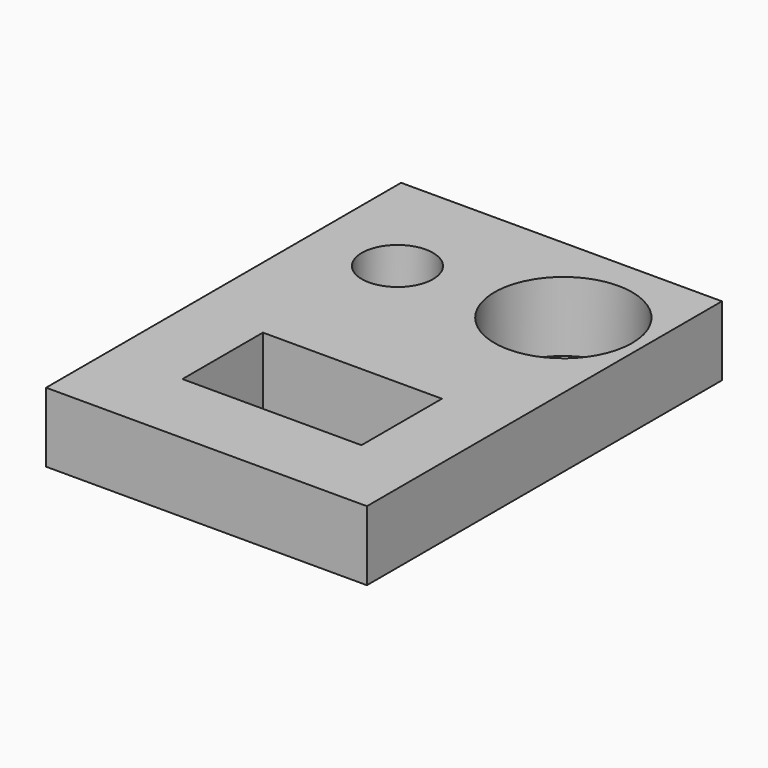
from build123d import *

# Parameters (mm, degrees)
SKETCH_W      = 46.096653
SKETCH_H      = 63.754647
SKETCH_R      = 5.115604
SKETCH_R_2    = 9.89173
SKETCH_W_2    = 25.718492
SKETCH_H_2    = 14.457141
EXTRUDE_DEPTH = 10


with BuildPart() as part:
    # Sketch → Extrude (new body)
    with BuildSketch(Plane.XY):
        with Locations((-1.115296, -1.022189)):
            Rectangle(SKETCH_W, SKETCH_H)
        with Locations((-11.849378, 14.813073)):
            Circle(SKETCH_R, mode=Mode.SUBTRACT)
        with Locations((10.521152, 16.639254)):
            Circle(SKETCH_R_2, mode=Mode.SUBTRACT)
        with Locations((-0.664117, -14.481647)):
            Rectangle(SKETCH_W_2, SKETCH_H_2, mode=Mode.SUBTRACT)
    extrude(amount=EXTRUDE_DEPTH)


solid = part.part
